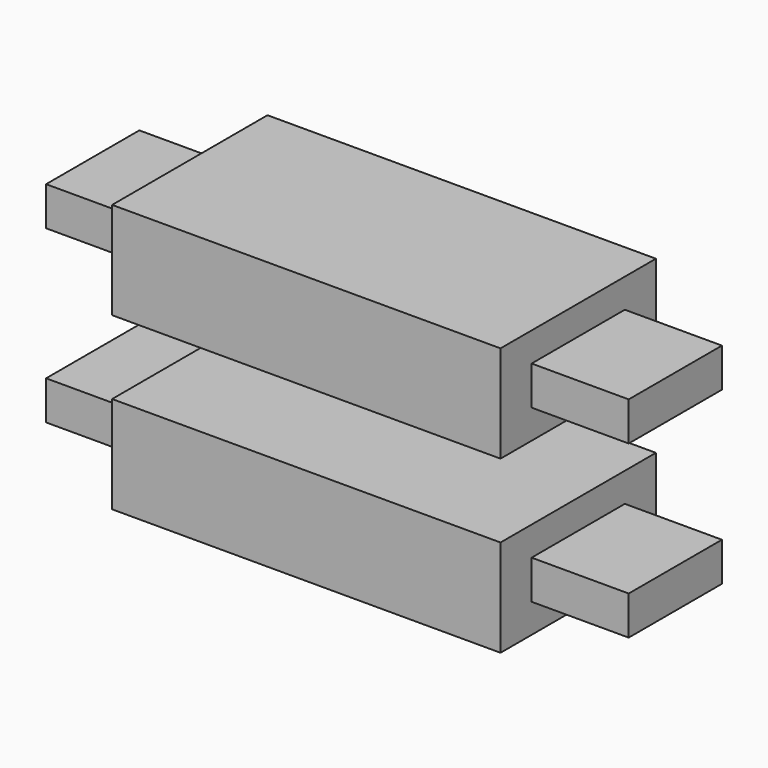
from build123d import *

# Parameters (mm, degrees)
F0_W     = 100
F0_H     = 50
F1_DEPTH = 25
F2_W     = 30
F2_H     = 10
F3_DEPTH = 25
F5_R     = 5
F6_DEPTH = 25


with BuildPart() as f1:
    # F0 (on Top) → F1 (new body)
    with BuildSketch(Plane.XY):
        Rectangle(F0_W, F0_H)
    extrude(amount=F1_DEPTH)

    # F2 (on face) → F3 (join)
    with BuildSketch(Plane(origin=(-50, 0, 0), x_dir=(0, -1, 0), z_dir=(-1, 0, 0))):
        with Locations((0, 12.5)):
            Rectangle(F2_W, F2_H)
    extrude(amount=F3_DEPTH)

    # F4: F1 across plane


with BuildPart() as f1_1:
    add(f1.part)
    add(f1.part.mirror(Plane.YZ))

    # F5 (on face) → F6 (cut)
    with BuildSketch(Plane(origin=(0, 25, 0), x_dir=(-1, 0, 0), z_dir=(0, 1, 0))):
        with Locations((25, 12.5)):
            Circle(F5_R)
        with Locations((-25, 12.5)):
            Circle(F5_R)
    extrude(amount=-F6_DEPTH, mode=Mode.SUBTRACT)


with BuildPart() as f7_1:
    # F7: copy of F1
    add(f1_1.part.moved(Location((0, 0, 44))))


solid = Compound([f1_1.part, f7_1.part])
